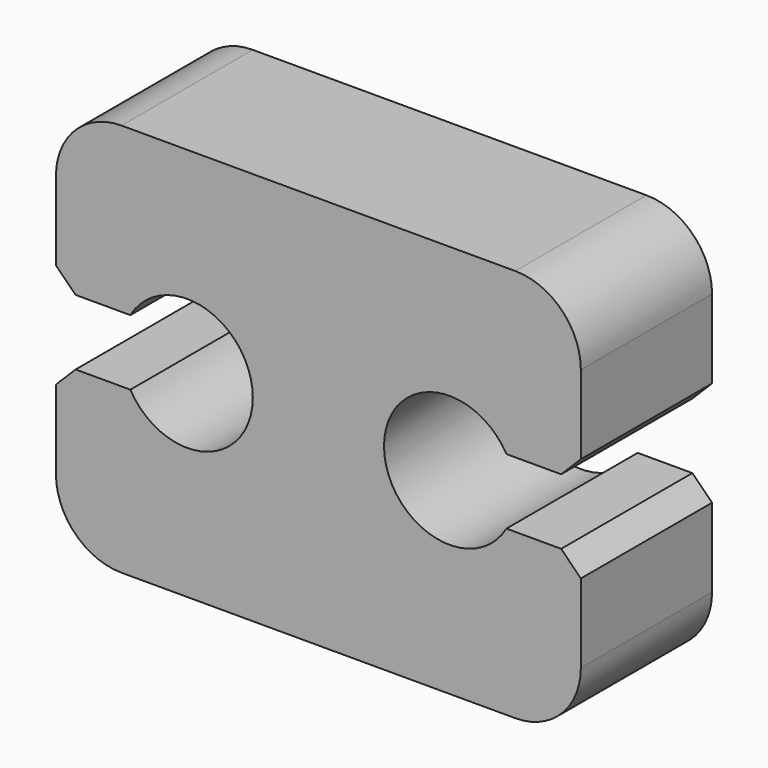
from build123d import *

# Parameters (mm, degrees)
F1_DEPTH = 25


with BuildPart() as f1:
    # F0 (on Front) → F1 (new body)
    with BuildSketch(Plane.XZ):
        with BuildLine():
            ThreePointArc((-28.660254, 5), (-10, 0), (-28.660254, -5))
            Line((-28.660254, -5), (-37, -5))
            Line((-37, -5), (-40, -8))
            Line((-40, -8), (-40, -20))
            ThreePointArc((-40, -20), (-37.071068, -27.071068), (-30, -30))
            Line((-30, -30), (0, -30))
            Line((0, -30), (30, -30))
            ThreePointArc((30, -30), (37.071068, -27.071068), (40, -20))
            Line((40, -20), (40, -8))
            Line((40, -8), (37, -5))
            Line((37, -5), (28.660254, -5))
            ThreePointArc((28.660254, -5), (10, 0), (28.660254, 5))
            Line((28.660254, 5), (37, 5))
            Line((37, 5), (40, 8))
            Line((40, 8), (40, 20))
            ThreePointArc((40, 20), (37.071068, 27.071068), (30, 30))
            Line((30, 30), (0, 30))
            Line((0, 30), (-30, 30))
            ThreePointArc((-30, 30), (-37.071068, 27.071068), (-40, 20))
            Line((-40, 20), (-40, 8))
            Line((-40, 8), (-37, 5))
            Line((-37, 5), (-28.660254, 5))
        make_face()
    extrude(amount=F1_DEPTH)


solid = f1.part
